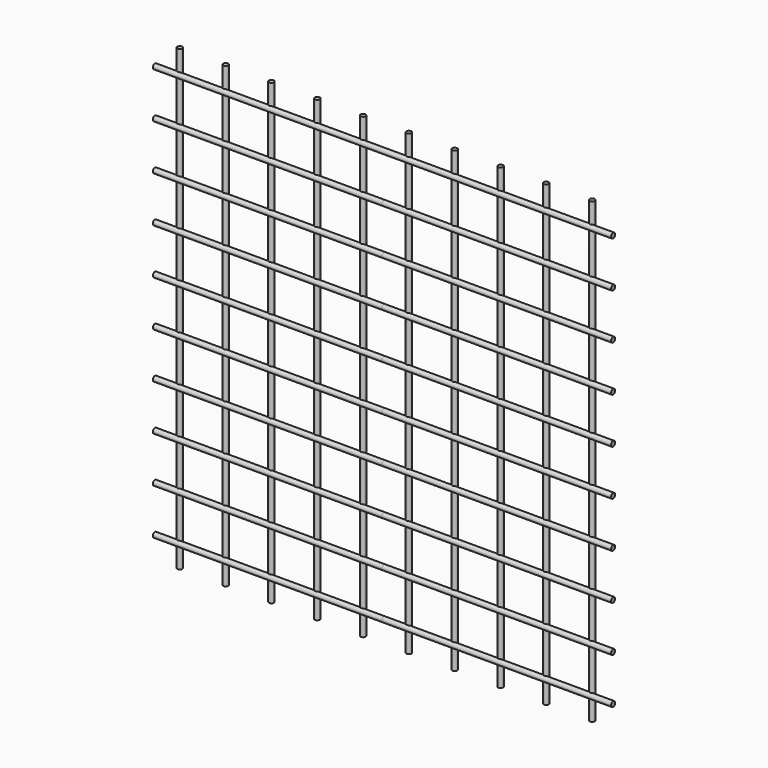
from build123d import *

# Parameters (mm, degrees)
F0_R     = 2.5
F1_DEPTH = 225
F2_R     = 2.5
F3_DEPTH = 450


with BuildPart() as f1:
    # F0 (on Right) → F1 (new body, symmetric)
    with BuildSketch(Plane.YZ):
        with Locations((0, 22.5)):
            Circle(F0_R)
        with Locations((0, 67.5)):
            Circle(F0_R)
        with Locations((0, 112.5)):
            Circle(F0_R)
        with Locations((0, 157.5)):
            Circle(F0_R)
        with Locations((0, 202.5)):
            Circle(F0_R)
        with Locations((0, 247.5)):
            Circle(F0_R)
        with Locations((0, 292.5)):
            Circle(F0_R)
        with Locations((0, 337.5)):
            Circle(F0_R)
        with Locations((0, 382.5)):
            Circle(F0_R)
        with Locations((0, 427.5)):
            Circle(F0_R)
    extrude(amount=F1_DEPTH, both=True)


with BuildPart() as f3:
    # F2 (on Top) → F3 (new body)
    with BuildSketch(Plane.XY):
        with Locations((-202.5, 2.5)):
            Circle(F2_R)
        with Locations((-157.5, 2.5)):
            Circle(F2_R)
        with Locations((-112.5, 2.5)):
            Circle(F2_R)
        with Locations((-67.5, 2.5)):
            Circle(F2_R)
        with Locations((-22.5, 2.5)):
            Circle(F2_R)
        with Locations((22.5, 2.5)):
            Circle(F2_R)
        with Locations((67.5, 2.5)):
            Circle(F2_R)
        with Locations((112.5, 2.5)):
            Circle(F2_R)
        with Locations((157.5, 2.5)):
            Circle(F2_R)
        with Locations((202.5, 2.5)):
            Circle(F2_R)
    extrude(amount=F3_DEPTH)


solid = Compound([f1.part, f3.part])
